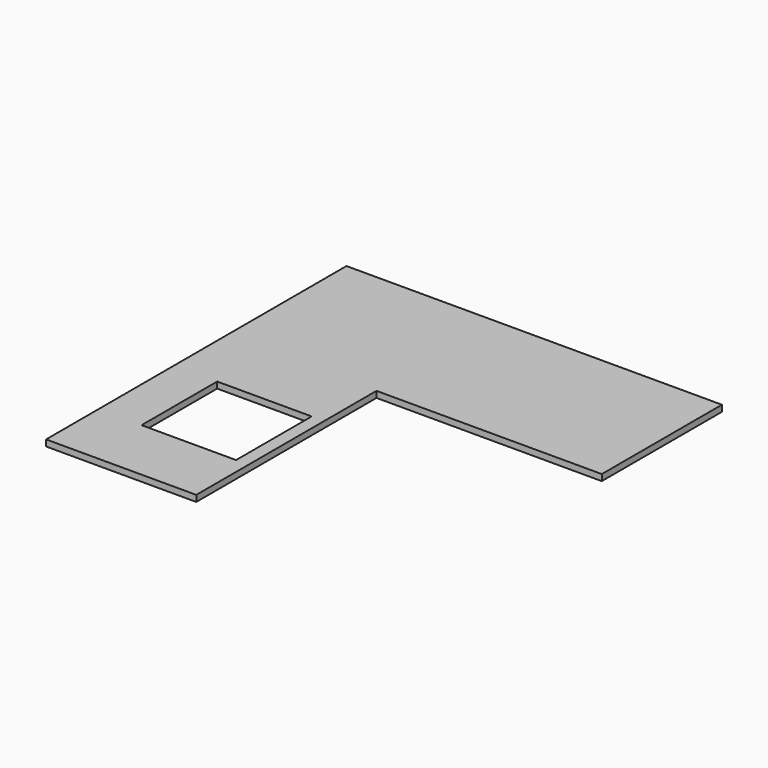
from build123d import *

# Parameters (mm, degrees)
F1_W     = 383.54
F1_H     = 383.54
F2_DEPTH = 25.4


with BuildPart() as f2:
    # F1 (on face) → F2 (new body)
    with BuildSketch(Plane.XY):
        Polygon((0, -914.4), (0, 0), (914.4, 0), (914.4, 609.6), (-609.6, 609.6), (-609.6, -914.4), align=None)
        with Locations((-242.57, -457.2)):
            Rectangle(F1_W, F1_H, mode=Mode.SUBTRACT)
    extrude(amount=F2_DEPTH)


solid = f2.part
